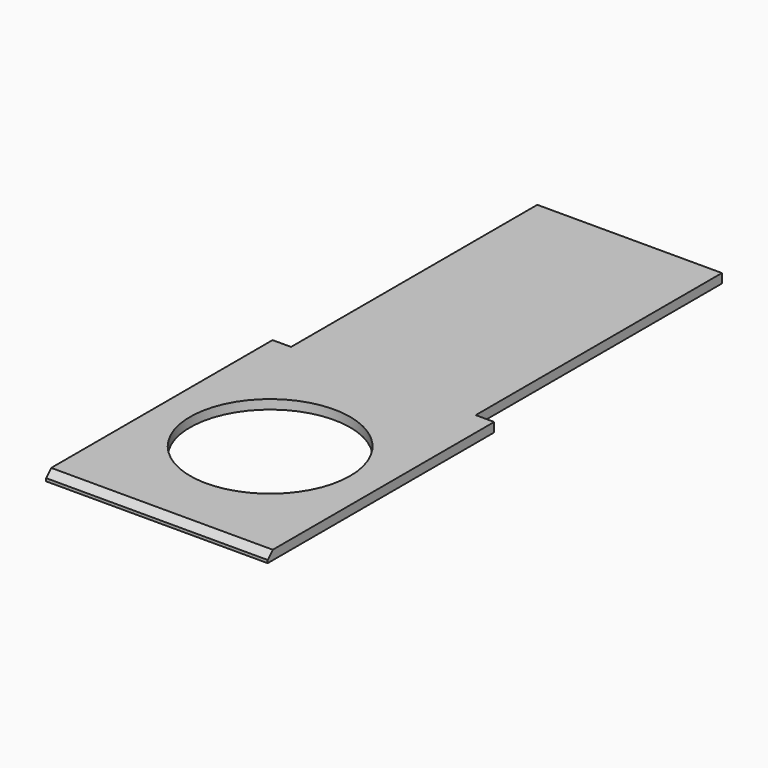
from build123d import *

# Parameters (mm, degrees)
F0_W     = 95.25
F0_H     = 158.75
F0_W_2   = 6.35
F0_H_2   = 133.35
F1_DEPTH = 4.7752
F2_R     = 41.275
F3_DEPTH = 25.4
F4_SIZE  = 3.302


with BuildPart() as f1:
    # F0 (on Top) → F1 (new body)
    with BuildSketch(Plane.XY):
        Polygon((-50.8, -73.025), (50.8, -73.025), (50.8, 60.325), (57.15, 60.325), (57.15, 73.025), (47.625, 73.025), (-47.625, 73.025), (-57.15, 73.025), (-57.15, 60.325), (-50.8, 60.325), align=None)
        with Locations((0, 152.4)):
            Rectangle(F0_W, F0_H)
        with Locations((-53.975, -6.35)):
            Rectangle(F0_W_2, F0_H_2)
        with Locations((53.975, -6.35)):
            Rectangle(F0_W_2, F0_H_2)
    extrude(amount=F1_DEPTH)

    # F2 (on face) → F3 (cut)
    with BuildSketch(Plane.XY.offset(4.7752)):
        Circle(F2_R)
    extrude(amount=-F3_DEPTH, mode=Mode.SUBTRACT)

    # F4
    f4_edges = [f1.edges().sort_by_distance(p)[0] for p in [
        (0, -73.025, 4.7752),
    ]]
    chamfer(f4_edges, length=F4_SIZE)


solid = f1.part
